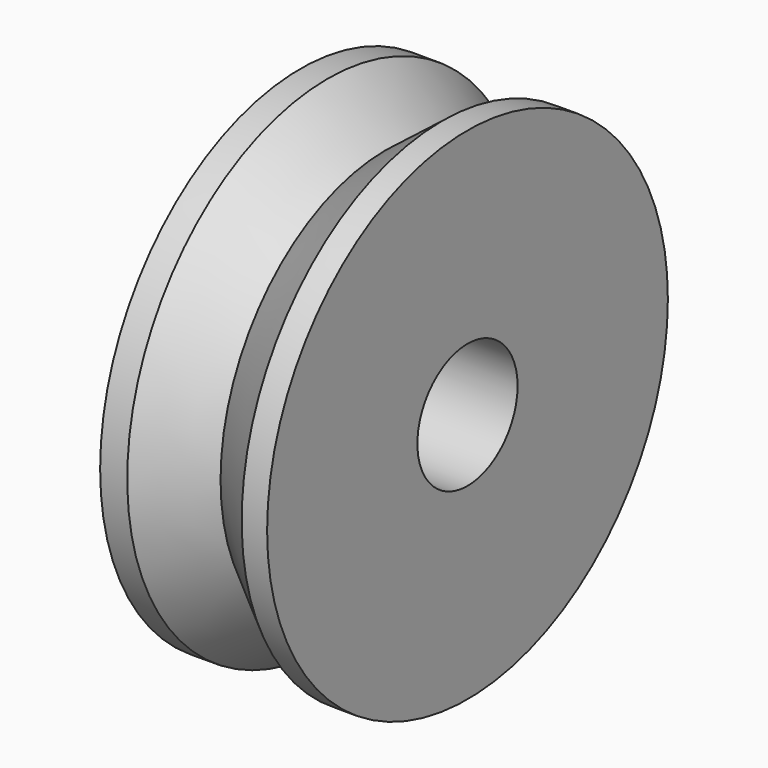
from build123d import *

# Parameters (mm, degrees)
F0_R     = 6
F0_R_2   = 1.5
F1_DEPTH = 4


with BuildPart() as f1:
    # F0 (on Right) → F1 (new body)
    with BuildSketch(Plane.YZ):
        Circle(F0_R)
        Circle(F0_R_2, mode=Mode.SUBTRACT)
    extrude(amount=F1_DEPTH)

    # F2 (on Front) → F3 (revolve, cut)
    with BuildSketch(Plane.XZ):
        Polygon((4.01965, 6.491584), (0, 6.491584), (2.041451, 4.946115), align=None)
    revolve(axis=Axis((0, 0, 0), (1, 0, 0)), mode=Mode.SUBTRACT)


solid = f1.part
